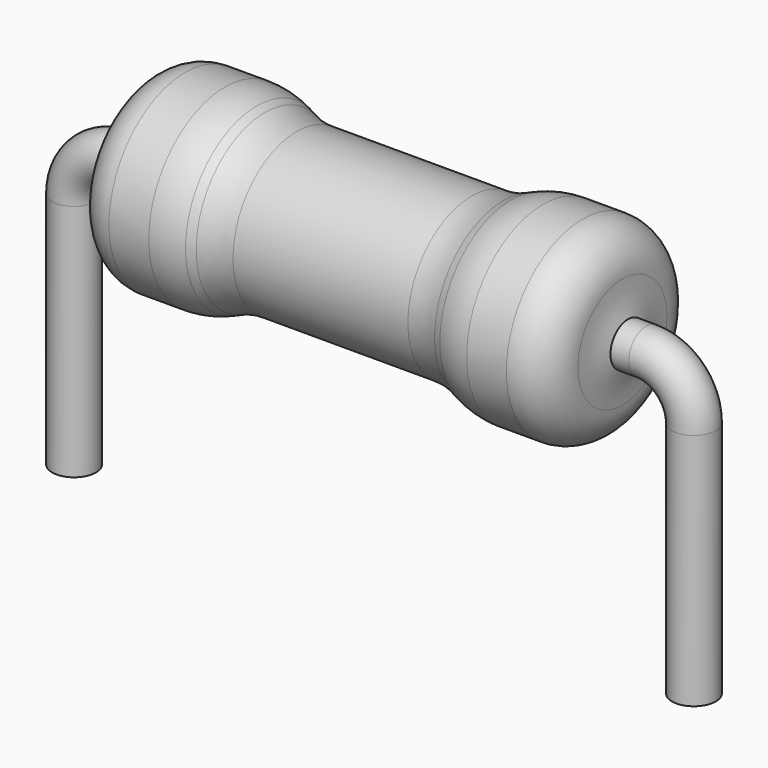
from build123d import *

# Parameters (mm, degrees)
REVOLVE_ONTO_SKETCH002_ROLL_ANGLE = 90
REVOLVE_ROLL_ANGLE                = -90
SKETCH001_R                       = 0.275
SWEEP_ROLL_ANGLE                  = -90


with BuildPart() as revolve_body:
    # Sketch002 as drawn → Revolve (revolve)
    with BuildSketch(Plane.XY):
        with BuildLine():
            Line((-2.5, 1.2), (-2, 1.2))
            ThreePointArc((-1.6, 1.12065), (-1.796103, 1.179971), (-2, 1.2))
            Line((-1.6, 1.12065), (-1.5, 1.07935))
            ThreePointArc((-1.5, 1.07935), (-1.303897, 1.020029), (-1.1, 1))
            Line((1.1, 1), (-1.1, 1))
            ThreePointArc((1.1, 1), (1.303897, 1.020029), (1.5, 1.07935))
            Line((1.6, 1.12065), (1.5, 1.07935))
            ThreePointArc((2, 1.2), (1.796103, 1.179971), (1.6, 1.12065))
            Line((2.5, 1.2), (2, 1.2))
            ThreePointArc((3, 0.7), (2.853553, 1.053553), (2.5, 1.2))
            ThreePointArc((3, 0.7), (3.050926, 0.335979), (3.2, 0))
            Line((3.2, 0), (-3.2, 0))
            ThreePointArc((-3.2, 0), (-3.045646, 0.326695), (-2.999778, 0.685095))
            ThreePointArc((-2.5, 1.2), (-2.858785, 1.048244), (-2.999778, 0.685095))
        make_face()
    revolve(axis=Axis((0, 0, 0), (1, 0, 0)))


with BuildPart() as revolve_body_1:
    # Revolve onto Sketch002 roll: moved
    add(revolve_body.part.rotate(Axis((0, 0, 0), (1, 0, 0)), REVOLVE_ONTO_SKETCH002_ROLL_ANGLE))


with BuildPart() as revolve_body_2:
    # Revolve onto Sketch002 placement: moved
    add(revolve_body_1.part)


with BuildPart() as revolve_body_3:
    # Revolve roll: moved
    add(revolve_body_2.part.rotate(Axis((0, 0, 0), (1, 0, 0)), REVOLVE_ROLL_ANGLE))


with BuildPart() as revolve_body_4:
    # Revolve placement: moved
    add(revolve_body_3.part.moved(Location((0, 0, 1.3))))


with BuildPart() as resistor:
    # Sweep: sweep along a path in Sketch
    with BuildLine(Plane.XY) as sweep_path:
        Line((-3.9, 3.6), (-3.9, 0.6))
        ThreePointArc((-3.9, 0.6), (-3.724264, 0.175736), (-3.3, 0))
        Line((-3.3, 0), (3.3, 0))
        ThreePointArc((3.3, 0), (3.724264, 0.175736), (3.9, 0.6))
        Line((3.9, 0.6), (3.9, 3.6))
    # Sketch001 → Sweep (sweep)
    with BuildSketch(Plane.YZ):
        Circle(SKETCH001_R)
    sweep(path=sweep_path.line)


with BuildPart() as resistor_1:
    # Sweep roll: moved
    add(resistor.part.rotate(Axis((0, 0, 0), (1, 0, 0)), SWEEP_ROLL_ANGLE))


with BuildPart() as resistor_2:
    # Sweep placement: moved
    add(resistor_1.part.moved(Location((0, 0, 1.3))))

    # Fusion: union Revolve body
    add(revolve_body_4.part)


solid = resistor_2.part
